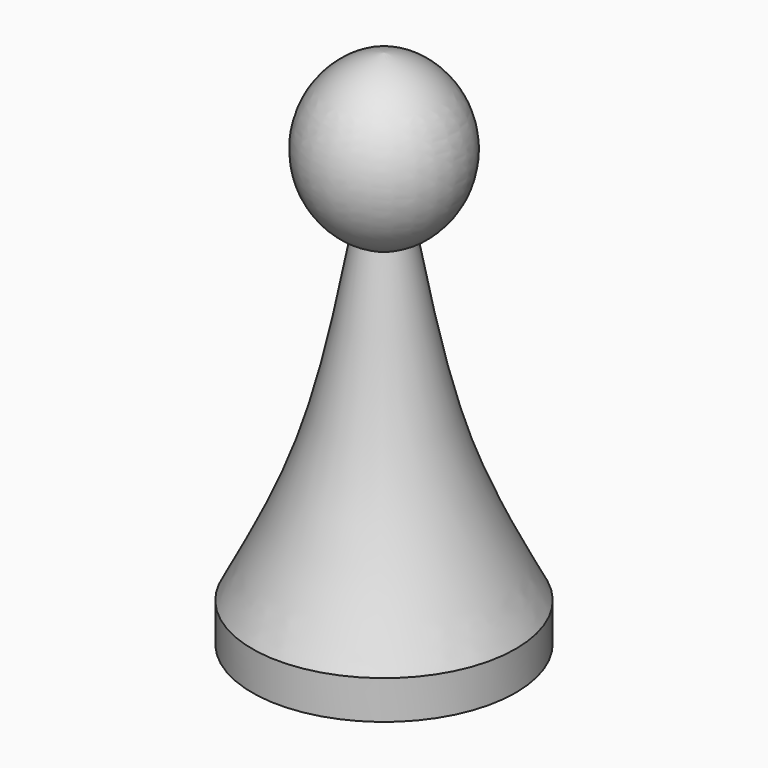
from build123d import *


with BuildPart() as f1:
    # F0 (on Front) → F1 (revolve)
    with BuildSketch(Plane.XZ):
        with BuildLine():
            Line((0, 28.6029765309), (0, 42.4739064722))
            ThreePointArc((0, 42.4739064722), (-5.9497628575, 36.6695190414), (-2.1612663802, 29.2710133849))
            ThreePointArc((-2.1612663802, 29.2710133849), (-1.1077912683, 28.8491317793), (0, 28.6029765309))
        make_face()
        with BuildLine():
            ThreePointArc((0, 28.6029765309), (-1.1077912683, 28.8491317793), (-2.1612663802, 29.2710133849))
            add(Edge.make_bspline(
                [(-2.1612663802, 29.2710133849), (-3.1153698825, 24.1163232337), (-4.931469376, 14.3119929829), (-8.8758626108, 6.7362799104), (-10.7458382845, 3.1449378002)],
                knots=[0, 0, 0, 0, 0.5259398672, 1, 1, 1, 1], degree=3))
            Line((-10.7458382845, 3.1449378002), (-10.7458382845, 0))
            Line((-10.7458382845, 0), (0, 0))
            Line((0, 0), (0, 28.6029765309))
        make_face()
    revolve(axis=Axis((0, 0, 21.2369532361), (0, 0, 1)))


solid = f1.part
